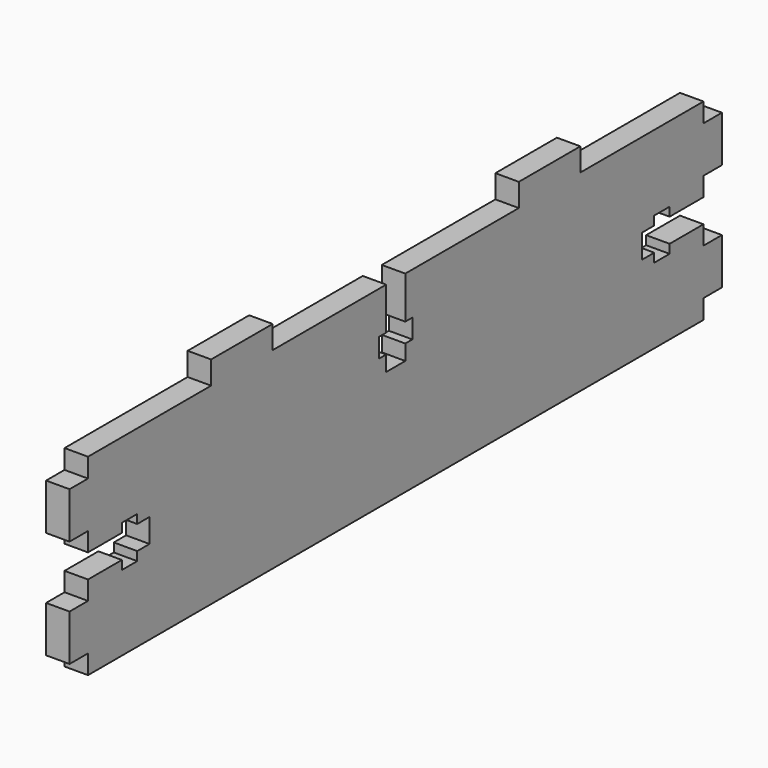
from build123d import *

# Parameters (mm, degrees)
F0_W     = 100
F0_H     = 25
F1_DEPTH = 1.525
F2_W     = 3
F2_H     = 6
F3_DEPTH = 3.05
F4_W     = 3.1
F4_H     = 5.5
F4_H_2   = 2.5
F4_W_2   = 1.15
F4_H_3   = 2
F4_W_3   = 5.5
F4_H_4   = 3.1
F4_W_4   = 2.5
F4_H_5   = 1.15
F4_W_5   = 2
F5_DEPTH = 3.05
F6_W     = 10
F6_H     = 3
F7_DEPTH = 3.05


with BuildPart() as f1:
    # F0 (on Right) → F1 (new body, symmetric)
    with BuildSketch(Plane.YZ):
        Rectangle(F0_W, F0_H)
    extrude(amount=F1_DEPTH, both=True)

    # F2 (on face) → F3 (join, through all)
    with BuildSketch(Plane.YZ.offset(1.525)):
        with Locations((-51.5, 7)):
            Rectangle(F2_W, F2_H)
        with Locations((-51.5, -7)):
            Rectangle(F2_W, F2_H)
        with Locations((51.5, -7)):
            Rectangle(F2_W, F2_H)
        with Locations((51.5, 7)):
            Rectangle(F2_W, F2_H)
    extrude(amount=-F3_DEPTH)

    # F4 (on face) → F5 (cut, through all)
    with BuildSketch(Plane.YZ.offset(1.525)):
        with Locations((0, 9.75)):
            Rectangle(F4_W, F4_H)
        with Locations((0, 5.75)):
            Rectangle(F4_W, F4_H_2)
        with Locations((-2.125, 5.75)):
            Rectangle(F4_W_2, F4_H_2)
        with Locations((2.125, 5.75)):
            Rectangle(F4_W_2, F4_H_2)
        with Locations((0, 3.5)):
            Rectangle(F4_W, F4_H_3)
        with Locations((-47.25, 0)):
            Rectangle(F4_W_3, F4_H_4)
        with Locations((-43.25, 0)):
            Rectangle(F4_W_4, F4_H_4)
        with Locations((-43.25, -2.125)):
            Rectangle(F4_W_4, F4_H_5)
        with Locations((-43.25, 2.125)):
            Rectangle(F4_W_4, F4_H_5)
        with Locations((-41, 0)):
            Rectangle(F4_W_5, F4_H_4)
        with Locations((43.25, 2.125)):
            Rectangle(F4_W_4, F4_H_5)
        with Locations((47.25, 0)):
            Rectangle(F4_W_3, F4_H_4)
        with Locations((43.25, 0)):
            Rectangle(F4_W_4, F4_H_4)
        with Locations((43.25, -2.125)):
            Rectangle(F4_W_4, F4_H_5)
        with Locations((41, 0)):
            Rectangle(F4_W_5, F4_H_4)
    extrude(amount=-F5_DEPTH, mode=Mode.SUBTRACT)

    # F6 (on face) → F7 (join, through all)
    with BuildSketch(Plane.YZ.offset(1.525)):
        with Locations((-25, 14)):
            Rectangle(F6_W, F6_H)
        with Locations((25, 14)):
            Rectangle(F6_W, F6_H)
    extrude(amount=-F7_DEPTH)


solid = f1.part
